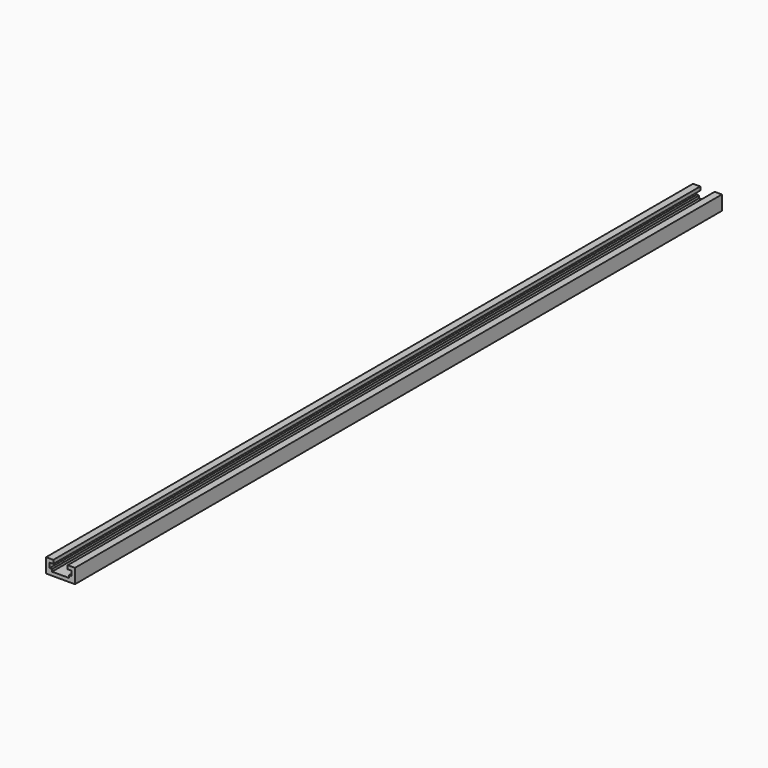
from build123d import *

# Parameters (mm, degrees)
SKETCH_W        = 19.05
SKETCH_H        = 9.525
PAD_DEPTH       = 533.4
SKETCH001_W     = 9.525
SKETCH001_H     = 2.38125
POCKET_DEPTH    = 533.401
SKETCH002_W     = 14.2875
SKETCH002_H     = 3.175
POCKET001_DEPTH = 533.401
SKETCH003_W     = 11.1125
SKETCH003_H     = 1.5875
POCKET002_DEPTH = 533.401


with BuildPart() as part:
    # Sketch → Pad (new body)
    with BuildSketch(Plane.XZ):
        Rectangle(SKETCH_W, SKETCH_H)
    extrude(amount=PAD_DEPTH)

    # Sketch001 (on Face6 of Pad) → Pocket (cut, through all)
    with BuildSketch(Plane.XZ.offset(533.4)):
        with Locations((0, 3.571875)):
            Rectangle(SKETCH001_W, SKETCH001_H)
    extrude(amount=-POCKET_DEPTH, mode=Mode.SUBTRACT)

    # Sketch002 (on Face5 of Pocket) → Pocket001 (cut, through all)
    with BuildSketch(Plane.XZ.offset(533.4)):
        with Locations((0, 0.79375)):
            Rectangle(SKETCH002_W, SKETCH002_H)
    extrude(amount=-POCKET001_DEPTH, mode=Mode.SUBTRACT)

    # Sketch003 (on Face5 of Pocket001) → Pocket002 (cut, through all)
    with BuildSketch(Plane.XZ.offset(533.4)):
        with Locations((0, -1.5875)):
            Rectangle(SKETCH003_W, SKETCH003_H)
    extrude(amount=-POCKET002_DEPTH, mode=Mode.SUBTRACT)


solid = part.part
